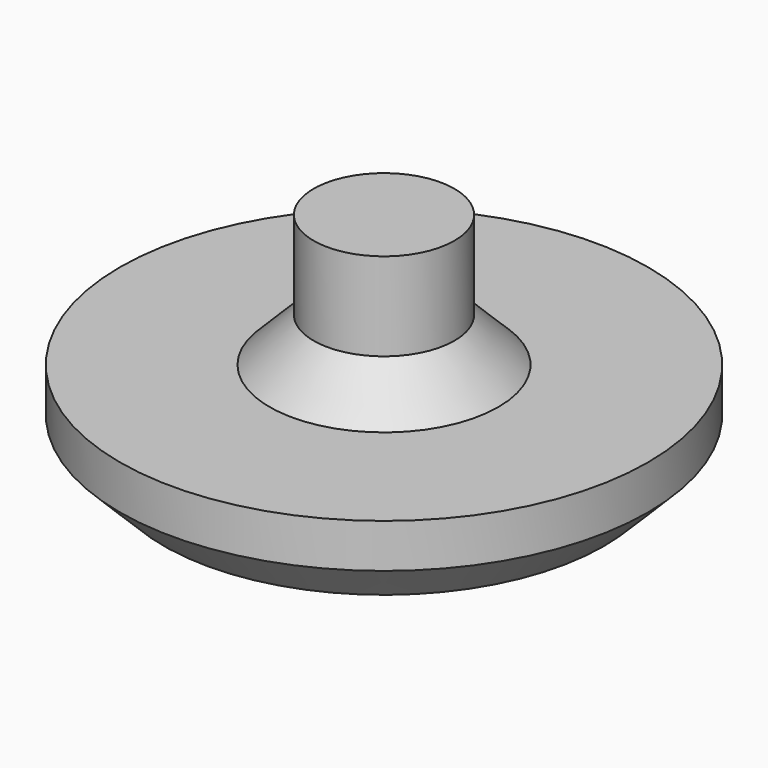
from build123d import *

# Parameters (mm, degrees)
F0_R     = 6
F0_R_2   = 1.6
F1_DEPTH = 2
F2_DEPTH = 5
F3_SIZE  = 1


with BuildPart() as f1:
    # F0 (on Top) → F1 (new body)
    with BuildSketch(Plane.XY):
        Circle(F0_R)
        Circle(F0_R_2, mode=Mode.SUBTRACT)
    extrude(amount=F1_DEPTH)

    # F0 (on Top) → F2 (join)
    with BuildSketch(Plane.XY):
        Circle(F0_R_2)
    extrude(amount=F2_DEPTH)

    # F3
    f3_edges = [f1.edges().sort_by_distance(p)[0] for p in [
        (-6, 0, 0),
        (-1.6, 0, 2),
    ]]
    chamfer(f3_edges, length=F3_SIZE)


solid = f1.part
